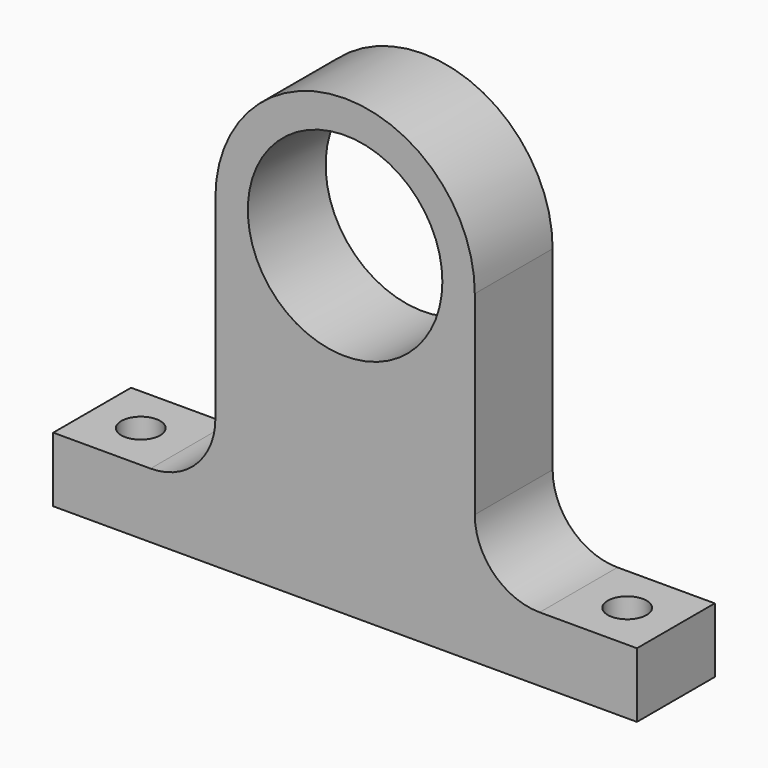
from build123d import *

# Parameters (mm, degrees)
F0_R     = 9.525
F1_DEPTH = 4.7625
F2_R     = 6.35
F4_D     = 3.81


with BuildPart() as f1:
    # F0 (on Front) → F1 (new body, symmetric)
    with BuildSketch(Plane.XZ):
        with BuildLine():
            Line((12.7, -25.4), (12.7, 0))
            ThreePointArc((12.7, 0), (0, 12.7), (-12.7, 0))
            Line((-12.7, 0), (-12.7, -25.4))
            Line((-12.7, -25.4), (-28.575, -25.4))
            Line((-28.575, -25.4), (-28.575, -31.75))
            Line((-28.575, -31.75), (28.575, -31.75))
            Line((28.575, -31.75), (28.575, -25.4))
            Line((28.575, -25.4), (12.7, -25.4))
        make_face()
        Circle(F0_R, mode=Mode.SUBTRACT)
    extrude(amount=F1_DEPTH, both=True)

    # F2
    f2_edges = [f1.edges().sort_by_distance(p)[0] for p in [
        (-12.7, 0, -25.4),
        (12.7, 0, -25.4),
    ]]
    fillet(f2_edges, radius=F2_R)

    # F4 (through all)
    with Locations(Plane(origin=(0, 0, -31.75), x_dir=(1, 0, 0), z_dir=(0, 0, -1))):
        with Locations((-23.8125, 0), (23.8125, 0)):
            Hole(F4_D / 2)


solid = f1.part
